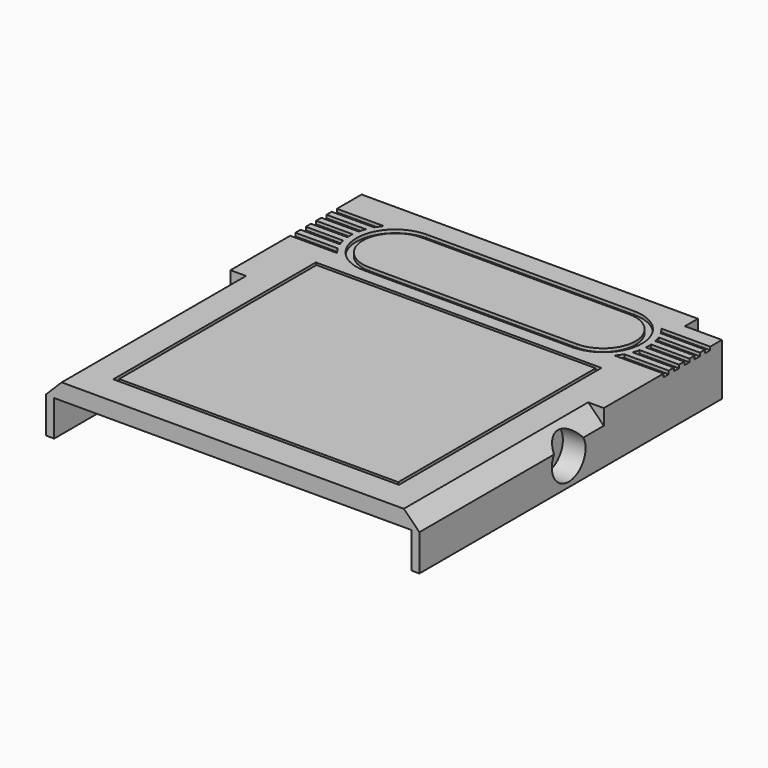
from build123d import *

# Parameters (mm, degrees)
BOX056_W          = 13.5
BOX056_H          = 1.5
BOX056_DEPTH      = 5
BOX017_W          = 43
BOX017_H          = 38
BOX017_DEPTH      = 0.5
BOX041_W          = 44
BOX041_H          = 39
BOX041_DEPTH      = 0.5
CYLINDER_R        = 3.25
CYLINDER_DEPTH    = 3.5
BOX008_W          = 57.5
BOX008_H          = 35.5
BOX008_DEPTH      = 2.5
CHAMFER_SIZE      = 2.4
BOX001_W          = 5.7
BOX001_H          = 2.5
BOX001_DEPTH      = 6
BOX003_W          = 5.5
BOX003_H          = 3.5
BOX003_DEPTH      = 6
BOX002_W          = 55
BOX002_H          = 62.75
BOX002_DEPTH      = 5.5
BOX_W             = 57.5
BOX_H             = 60.75
BOX_DEPTH         = 5.5
CYLINDER011_R     = 5
CYLINDER011_DEPTH = 0.5
BOX055_W          = 32
BOX055_H          = 10
BOX055_DEPTH      = 0.5
CYLINDER010_R     = 5
CYLINDER010_DEPTH = 0.5
BOX044_W          = 32
BOX044_H          = 12
BOX044_DEPTH      = 1
CYLINDER007_R     = 6
CYLINDER007_DEPTH = 1
CYLINDER006_R     = 6
CYLINDER006_DEPTH = 1
CYLINDER008_R     = 7
CYLINDER008_DEPTH = 1
BOX047_W          = 10
BOX047_H          = 1
BOX047_DEPTH      = 1
BOX049_W          = 10
BOX049_H          = 1
BOX049_DEPTH      = 1
BOX048_W          = 10
BOX048_H          = 1
BOX048_DEPTH      = 1
BOX046_W          = 10
BOX046_H          = 1
BOX046_DEPTH      = 1
BOX045_W          = 10
BOX045_H          = 1
BOX045_DEPTH      = 1
CYLINDER009_R     = 7
CYLINDER009_DEPTH = 1
BOX051_W          = 10
BOX051_H          = 1
BOX051_DEPTH      = 1
BOX054_W          = 10
BOX054_H          = 1
BOX054_DEPTH      = 1
BOX053_W          = 10
BOX053_H          = 1
BOX053_DEPTH      = 1
BOX052_W          = 10
BOX052_H          = 1
BOX052_DEPTH      = 1
BOX050_W          = 10
BOX050_H          = 1
BOX050_DEPTH      = 1
BOX010_W          = 10
BOX010_H          = 10
BOX010_DEPTH      = 10
BOX007_W          = 57.5
BOX007_H          = 25.25
BOX007_DEPTH      = 2.5
BOX057_W          = 4
BOX057_H          = 8
BOX057_DEPTH      = 6
BOX058_W          = 14.5
BOX058_H          = 1.5
BOX058_DEPTH      = 5


with BuildPart() as cube_sd_card_cover:
    # Box056 → Box056 (new body)
    with BuildSketch(Plane(origin=(19.5, 62.75, -5.7), x_dir=(1, 0, 0), z_dir=(0, 0, 1))):
        with Locations((6.75, 0.75)):
            Rectangle(BOX056_W, BOX056_H)
    extrude(amount=BOX056_DEPTH)


with BuildPart() as obj1:
    # Box017 → Box017 (new body)
    with BuildSketch(Plane(origin=(7.25, 8.5, 6.8), x_dir=(1, 0, 0), z_dir=(0, 0, 1))):
        with Locations((21.5, 19)):
            Rectangle(BOX017_W, BOX017_H)
    extrude(amount=BOX017_DEPTH)


with BuildPart() as obj2:
    # Box041 → Box041 (new body)
    with BuildSketch(Plane(origin=(6.75, 8, 6.8), x_dir=(1, 0, 0), z_dir=(0, 0, 1))):
        with Locations((22, 19.5)):
            Rectangle(BOX041_W, BOX041_H)
    extrude(amount=BOX041_DEPTH)


with BuildPart() as cylinder_magnet:
    # Cylinder → Cylinder (new body)
    with BuildSketch(Plane(origin=(54, 32.25, 3.3), x_dir=(0, 0, -1), z_dir=(1, 0, 0))):
        Circle(CYLINDER_R)
    extrude(amount=CYLINDER_DEPTH)


with BuildPart() as chamfer_body:
    # Box008 → Box008 (new body)
    with BuildSketch(Plane(origin=(0, 3.5, 4.8), x_dir=(1, 0, 0), z_dir=(0, 0, 1))):
        with Locations((28.75, 17.75)):
            Rectangle(BOX008_W, BOX008_H)
    extrude(amount=BOX008_DEPTH)

    # Chamfer
    chamfer_edges = [chamfer_body.edges().sort_by_distance(p)[0] for p in [
        (0, 21.25, 7.3),
        (57.5, 21.25, 7.3),
    ]]
    chamfer(chamfer_edges, length=CHAMFER_SIZE)


with BuildPart() as cube_corner_inner:
    # Box001 → Box001 (new body)
    with BuildSketch(Plane(origin=(51.8, 61.75, -0.7), x_dir=(1, 0, 0), z_dir=(0, 0, 1))):
        with Locations((2.85, 1.25)):
            Rectangle(BOX001_W, BOX001_H)
    extrude(amount=BOX001_DEPTH)


with BuildPart() as cube_corner_outer:
    # Box003 → Box003 (new body)
    with BuildSketch(Plane(origin=(50.8, 60.75, -0.7), x_dir=(1, 0, 0), z_dir=(0, 0, 1))):
        with Locations((2.75, 1.75)):
            Rectangle(BOX003_W, BOX003_H)
    extrude(amount=BOX003_DEPTH)


with BuildPart() as cube_inner_base:
    # Box002 → Box002 (new body)
    with BuildSketch(Plane(origin=(1.25, 0, -0.7), x_dir=(1, 0, 0), z_dir=(0, 0, 1))):
        with Locations((27.5, 31.375)):
            Rectangle(BOX002_W, BOX002_H)
    extrude(amount=BOX002_DEPTH)


with BuildPart() as cut024:
    # Box → Box (new body)
    with BuildSketch(Plane(origin=(0, 3.5, -0.7), x_dir=(1, 0, 0), z_dir=(0, 0, 1))):
        with Locations((28.75, 30.375)):
            Rectangle(BOX_W, BOX_H)
    extrude(amount=BOX_DEPTH)

    # Cut: cut Cube(inner_base)
    add(cube_inner_base.part, mode=Mode.SUBTRACT)

    # Fusion: union Cube(corner_outer)
    add(cube_corner_outer.part)

    # Cut024: cut Cube(corner_inner)
    add(cube_corner_inner.part, mode=Mode.SUBTRACT)


with BuildPart() as cylinder002_right_nintendo_inner:
    # Cylinder011 → Cylinder011 (new body)
    with BuildSketch(Plane(origin=(44.6, 55, 6.8), x_dir=(1, 0, 0), z_dir=(0, 0, 1))):
        Circle(CYLINDER011_R)
    extrude(amount=CYLINDER011_DEPTH)


with BuildPart() as cube_middle_nintendo_inner:
    # Box055 → Box055 (new body)
    with BuildSketch(Plane(origin=(12.6, 50, 6.8), x_dir=(1, 0, 0), z_dir=(0, 0, 1))):
        with Locations((16, 5)):
            Rectangle(BOX055_W, BOX055_H)
    extrude(amount=BOX055_DEPTH)


with BuildPart() as fusion033:
    # Cylinder010 → Cylinder010 (new body)
    with BuildSketch(Plane(origin=(12.6, 55, 6.8), x_dir=(1, 0, 0), z_dir=(0, 0, 1))):
        Circle(CYLINDER010_R)
    extrude(amount=CYLINDER010_DEPTH)

    # Fusion033: union Cylinder002(right_nintendo_inner), Cube(middle_nintendo_inner)
    add(cylinder002_right_nintendo_inner.part)
    add(cube_middle_nintendo_inner.part)


with BuildPart() as cube_middle_nintendo_outer:
    # Box044 → Box044 (new body)
    with BuildSketch(Plane(origin=(12.6, 49, 6.8), x_dir=(1, 0, 0), z_dir=(0, 0, 1))):
        with Locations((16, 6)):
            Rectangle(BOX044_W, BOX044_H)
    extrude(amount=BOX044_DEPTH)


with BuildPart() as cylinder002_right_nintendo_outer:
    # Cylinder007 → Cylinder007 (new body)
    with BuildSketch(Plane(origin=(44.6, 55, 6.8), x_dir=(1, 0, 0), z_dir=(0, 0, 1))):
        Circle(CYLINDER007_R)
    extrude(amount=CYLINDER007_DEPTH)


with BuildPart() as cylinder001_left_nintendo_outer:
    # Cylinder006 → Cylinder006 (new body)
    with BuildSketch(Plane(origin=(12.6, 55, 6.8), x_dir=(1, 0, 0), z_dir=(0, 0, 1))):
        Circle(CYLINDER006_R)
    extrude(amount=CYLINDER006_DEPTH)


with BuildPart() as cylinder001_left_nintendo_fin_cut:
    # Cylinder008 → Cylinder008 (new body)
    with BuildSketch(Plane(origin=(12.6, 55, 6.8), x_dir=(1, 0, 0), z_dir=(0, 0, 1))):
        Circle(CYLINDER008_R)
    extrude(amount=CYLINDER008_DEPTH)


with BuildPart() as box047:
    # Box047 → Box047 (new body)
    with BuildSketch(Plane(origin=(0, 54.5, 6.8), x_dir=(1, 0, 0), z_dir=(0, 0, 1))):
        with Locations((5, 0.5)):
            Rectangle(BOX047_W, BOX047_H)
    extrude(amount=BOX047_DEPTH)


with BuildPart() as box049:
    # Box049 → Box049 (new body)
    with BuildSketch(Plane(origin=(0, 58.5, 6.8), x_dir=(1, 0, 0), z_dir=(0, 0, 1))):
        with Locations((5, 0.5)):
            Rectangle(BOX049_W, BOX049_H)
    extrude(amount=BOX049_DEPTH)


with BuildPart() as box048:
    # Box048 → Box048 (new body)
    with BuildSketch(Plane(origin=(0, 56.5, 6.8), x_dir=(1, 0, 0), z_dir=(0, 0, 1))):
        with Locations((5, 0.5)):
            Rectangle(BOX048_W, BOX048_H)
    extrude(amount=BOX048_DEPTH)


with BuildPart() as box046:
    # Box046 → Box046 (new body)
    with BuildSketch(Plane(origin=(0, 52.5, 6.8), x_dir=(1, 0, 0), z_dir=(0, 0, 1))):
        with Locations((5, 0.5)):
            Rectangle(BOX046_W, BOX046_H)
    extrude(amount=BOX046_DEPTH)


with BuildPart() as cut009:
    # Box045 → Box045 (new body)
    with BuildSketch(Plane(origin=(0, 50.5, 6.8), x_dir=(1, 0, 0), z_dir=(0, 0, 1))):
        with Locations((5, 0.5)):
            Rectangle(BOX045_W, BOX045_H)
    extrude(amount=BOX045_DEPTH)

    # Fusion004: union Box047, Box049, Box048, Box046
    add(box047.part)
    add(box049.part)
    add(box048.part)
    add(box046.part)

    # Cut009: cut Cylinder001(left_nintendo_fin_cut)
    add(cylinder001_left_nintendo_fin_cut.part, mode=Mode.SUBTRACT)


with BuildPart() as cylinder002_right_nintendo_fin_cut:
    # Cylinder009 → Cylinder009 (new body)
    with BuildSketch(Plane(origin=(44.6, 55, 6.8), x_dir=(1, 0, 0), z_dir=(0, 0, 1))):
        Circle(CYLINDER009_R)
    extrude(amount=CYLINDER009_DEPTH)


with BuildPart() as box051:
    # Box051 → Box051 (new body)
    with BuildSketch(Plane(origin=(47.5, 54.5, 6.8), x_dir=(1, 0, 0), z_dir=(0, 0, 1))):
        with Locations((5, 0.5)):
            Rectangle(BOX051_W, BOX051_H)
    extrude(amount=BOX051_DEPTH)


with BuildPart() as box054:
    # Box054 → Box054 (new body)
    with BuildSketch(Plane(origin=(47.5, 52.5, 6.8), x_dir=(1, 0, 0), z_dir=(0, 0, 1))):
        with Locations((5, 0.5)):
            Rectangle(BOX054_W, BOX054_H)
    extrude(amount=BOX054_DEPTH)


with BuildPart() as box053:
    # Box053 → Box053 (new body)
    with BuildSketch(Plane(origin=(47.5, 56.5, 6.8), x_dir=(1, 0, 0), z_dir=(0, 0, 1))):
        with Locations((5, 0.5)):
            Rectangle(BOX053_W, BOX053_H)
    extrude(amount=BOX053_DEPTH)


with BuildPart() as box052:
    # Box052 → Box052 (new body)
    with BuildSketch(Plane(origin=(47.5, 58.5, 6.8), x_dir=(1, 0, 0), z_dir=(0, 0, 1))):
        with Locations((5, 0.5)):
            Rectangle(BOX052_W, BOX052_H)
    extrude(amount=BOX052_DEPTH)


with BuildPart() as cut008:
    # Box050 → Box050 (new body)
    with BuildSketch(Plane(origin=(47.5, 50.5, 6.8), x_dir=(1, 0, 0), z_dir=(0, 0, 1))):
        with Locations((5, 0.5)):
            Rectangle(BOX050_W, BOX050_H)
    extrude(amount=BOX050_DEPTH)

    # Fusion003: union Box051, Box054, Box053, Box052
    add(box051.part)
    add(box054.part)
    add(box053.part)
    add(box052.part)

    # Cut008: cut Cylinder002(right_nintendo_fin_cut)
    add(cylinder002_right_nintendo_fin_cut.part, mode=Mode.SUBTRACT)


with BuildPart() as cube_top_corner_cut:
    # Box010 → Box010 (new body)
    with BuildSketch(Plane(origin=(51.8, 61.75, 0), x_dir=(1, 0, 0), z_dir=(0, 0, 1))):
        with Locations((5, 5)):
            Rectangle(BOX010_W, BOX010_H)
    extrude(amount=BOX010_DEPTH)


with BuildPart() as cut014:
    # Box007 → Box007 (new body)
    with BuildSketch(Plane(origin=(0, 39, 4.8), x_dir=(1, 0, 0), z_dir=(0, 0, 1))):
        with Locations((28.75, 12.625)):
            Rectangle(BOX007_W, BOX007_H)
    extrude(amount=BOX007_DEPTH)

    # Cut006: cut Cube(top_corner_cut)
    add(cube_top_corner_cut.part, mode=Mode.SUBTRACT)

    # Cut010: cut Cut008
    add(cut008.part, mode=Mode.SUBTRACT)

    # Cut011: cut Cut009
    add(cut009.part, mode=Mode.SUBTRACT)

    # Cut012: cut Cylinder001(left_nintendo_outer)
    add(cylinder001_left_nintendo_outer.part, mode=Mode.SUBTRACT)

    # Cut013: cut Cylinder002(right_nintendo_outer)
    add(cylinder002_right_nintendo_outer.part, mode=Mode.SUBTRACT)

    # Cut014: cut Cube(middle_nintendo_outer)
    add(cube_middle_nintendo_outer.part, mode=Mode.SUBTRACT)


with BuildPart() as fusion035:
    # Box057 → Box057 (new body)
    with BuildSketch(Plane(origin=(52.25, 28.25, -0.7), x_dir=(1, 0, 0), z_dir=(0, 0, 1))):
        with Locations((2, 4)):
            Rectangle(BOX057_W, BOX057_H)
    extrude(amount=BOX057_DEPTH)

    # Fusion034: union Chamfer body, Cut024, Fusion033, Cut014
    add(chamfer_body.part)
    add(cut024.part)
    add(fusion033.part)
    add(cut014.part)

    # Cut025: cut Cylinder(magnet)
    add(cylinder_magnet.part, mode=Mode.SUBTRACT)

    # Cut026: cut obj2)
    add(obj2.part, mode=Mode.SUBTRACT)

    # Fusion035: union obj1)
    add(obj1.part)


with BuildPart() as box058:
    # Box058 → Box058 (new body)
    with BuildSketch(Plane(origin=(18.5, 62.75, -5.7), x_dir=(1, 0, 0), z_dir=(0, 0, 1))):
        with Locations((7.25, 0.75)):
            Rectangle(BOX058_W, BOX058_H)
    extrude(amount=BOX058_DEPTH)


solid = Compound([cube_sd_card_cover.part, fusion035.part, box058.part])
